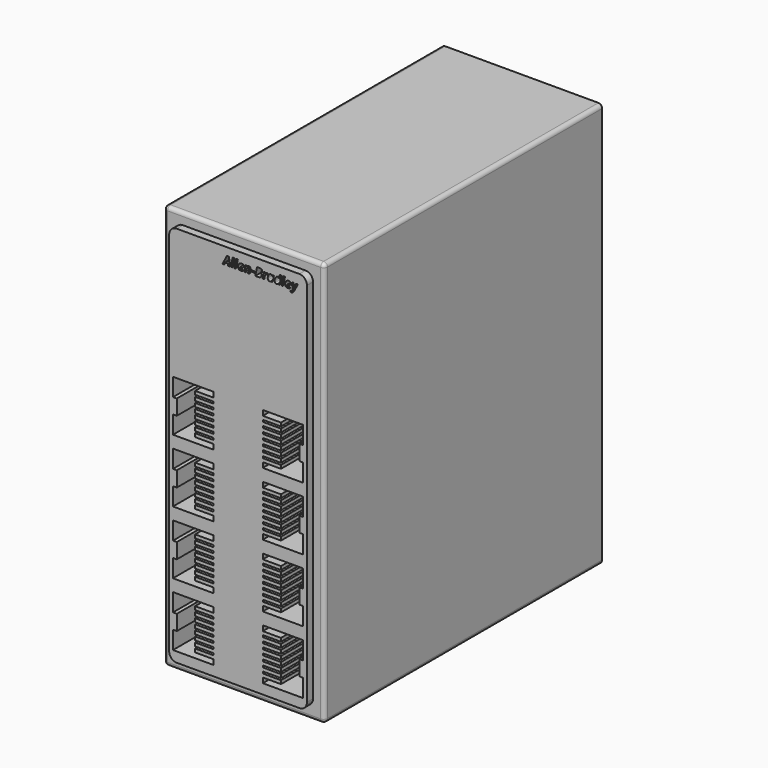
from build123d import *

# Parameters (mm, degrees)
F0_W     = 53.594
F0_H     = 135.128
F1_DEPTH = 115.824
F3_DEPTH = 2.54
F4_R     = 1.27
F6_DEPTH = 25.4


with BuildPart() as f1:
    # F0 (on Front) → F1 (new body)
    with BuildSketch(Plane.XZ):
        with Locations((26.797, 67.564)):
            Rectangle(F0_W, F0_H)
    extrude(amount=F1_DEPTH)

    # F2 (on face) → F3 (join)
    with BuildSketch(Plane.XZ.offset(115.824)):
        with BuildLine():
            Line((47.244, 131.318), (6.35, 131.318))
            ThreePointArc((6.35, 131.318), (4.5539487758, 130.5740512242), (3.81, 128.778))
            Line((3.81, 128.778), (3.81, 6.35))
            ThreePointArc((3.81, 6.35), (4.5539487758, 4.5539487758), (6.35, 3.81))
            Line((6.35, 3.81), (47.244, 3.81))
            ThreePointArc((47.244, 3.81), (49.0400512242, 4.5539487758), (49.784, 6.35))
            Line((49.784, 6.35), (49.784, 128.778))
            ThreePointArc((49.784, 128.778), (49.0400512242, 130.5740512242), (47.244, 131.318))
        make_face()
        Polygon((23.5003221438, 125.9574780346), (23.4544152107, 126.6234346097), (22.5497425838, 126.6234346097), (22.2210489433, 125.9574780346), (21.6089565029, 125.9574780346), (23.0736937128, 128.7657581512), (23.7873934983, 128.7657581512), (24.0683439285, 125.9574780346), align=None, mode=Mode.SUBTRACT)
        Polygon((25.5820485336, 128.9340835723), (24.9503691351, 125.9574780346), (24.3750022411, 125.9574780346), (25.0060695472, 128.9340835723), align=None, mode=Mode.SUBTRACT)
        Polygon((26.7450241704, 128.9340835723), (26.1133447719, 125.9574780346), (25.5379778779, 125.9574780346), (26.169045184, 128.9340835723), align=None, mode=Mode.SUBTRACT)
        with BuildLine():
            add(Edge.make_bspline(
                [(28.3933891125, 126.0835690773), (28.064695472, 125.9189162108), (27.64786052, 125.9189162108)],
                knots=[0, 0, 0, 1, 1, 1], degree=2))
            add(Edge.make_bspline(
                [(27.64786052, 125.9189162108), (27.2457157867, 125.9189162108), (27.023832277, 126.1352908885)],
                knots=[0, 0, 0, 1, 1, 1], degree=2))
            add(Edge.make_bspline(
                [(27.023832277, 126.1352908885), (26.8019487674, 126.3516655662), (26.8019487674, 126.7458530978)],
                knots=[0, 0, 0, 1, 1, 1], degree=2))
            add(Edge.make_bspline(
                [(26.8019487674, 126.7458530978), (26.8019487674, 127.1412648143), (26.959868617, 127.4675100851)],
                knots=[0, 0, 0, 1, 1, 1], degree=2))
            add(Edge.make_bspline(
                [(26.959868617, 127.4675100851), (27.1177884666, 127.7937553558), (27.3874151866, 127.9648351929)],
                knots=[0, 0, 0, 1, 1, 1], degree=2))
            add(Edge.make_bspline(
                [(27.3874151866, 127.9648351929), (27.6570419066, 128.13591503), (27.9973653035, 128.13591503)],
                knots=[0, 0, 0, 1, 1, 1], degree=2))
            add(Edge.make_bspline(
                [(27.9973653035, 128.13591503), (28.3364645155, 128.13591503), (28.5256010796, 127.9801375039)],
                knots=[0, 0, 0, 1, 1, 1], degree=2))
            add(Edge.make_bspline(
                [(28.5256010796, 127.9801375039), (28.7147376437, 127.8243599778), (28.7147376437, 127.5525909343)],
                knots=[0, 0, 0, 1, 1, 1], degree=2))
            add(Edge.make_bspline(
                [(28.7147376437, 127.5525909343), (28.7147376437, 127.1951289491), (28.395531436, 127.0010956455)],
                knots=[0, 0, 0, 1, 1, 1], degree=2))
            add(Edge.make_bspline(
                [(28.395531436, 127.0010956455), (28.0763252283, 126.8070623419), (27.4832076536, 126.8070623419)],
                knots=[0, 0, 0, 1, 1, 1], degree=2))
            Line((27.4832076536, 126.8070623419), (27.3852728631, 126.8070623419))
            Line((27.3852728631, 126.8070623419), (27.3816003085, 126.7666642408))
            Line((27.3816003085, 126.7666642408), (27.3816003085, 126.728102417))
            add(Edge.make_bspline(
                [(27.3816003085, 126.728102417), (27.3816003085, 126.554268164), (27.4801471914, 126.4538850037)],
                knots=[0, 0, 0, 1, 1, 1], degree=2))
            add(Edge.make_bspline(
                [(27.4801471914, 126.4538850037), (27.5786940743, 126.3535018435), (27.7623218064, 126.3535018435)],
                knots=[0, 0, 0, 1, 1, 1], degree=2))
            add(Edge.make_bspline(
                [(27.7623218064, 126.3535018435), (27.9288109502, 126.3535018435), (28.064695472, 126.3899213437)],
                knots=[0, 0, 0, 1, 1, 1], degree=2))
            add(Edge.make_bspline(
                [(28.064695472, 126.3899213437), (28.2005799937, 126.4263408439), (28.3933891125, 126.51815471)],
                knots=[0, 0, 0, 1, 1, 1], degree=2))
            Line((28.3933891125, 126.51815471), (28.3933891125, 126.0835690773))
        make_face(mode=Mode.SUBTRACT)
        with BuildLine():
            Line((30.93602111, 127.1761540834), (30.6813906547, 125.9574780346))
            Line((30.6813906547, 125.9574780346), (30.1060237608, 125.9574780346))
            Line((30.1060237608, 125.9574780346), (30.3679993253, 127.2067587054))
            add(Edge.make_bspline(
                [(30.3679993253, 127.2067587054), (30.3986039473, 127.3365223028), (30.3986039473, 127.4344570933)],
                knots=[0, 0, 0, 1, 1, 1], degree=2))
            add(Edge.make_bspline(
                [(30.3986039473, 127.4344570933), (30.3986039473, 127.6695005904), (30.1917167024, 127.6695005904)],
                knots=[0, 0, 0, 1, 1, 1], degree=2))
            add(Edge.make_bspline(
                [(30.1917167024, 127.6695005904), (30.016046172, 127.6695005904), (29.8725104947, 127.4512896354)],
                knots=[0, 0, 0, 1, 1, 1], degree=2))
            add(Edge.make_bspline(
                [(29.8725104947, 127.4512896354), (29.7289748175, 127.2330786804), (29.6469544304, 126.8431757958)],
                knots=[0, 0, 0, 1, 1, 1], degree=2))
            Line((29.6469544304, 126.8431757958), (29.4590420512, 125.9574780346))
            Line((29.4590420512, 125.9574780346), (28.8836751572, 125.9574780346))
            Line((28.8836751572, 125.9574780346), (29.3366235631, 128.0961290214))
            Line((29.3366235631, 128.0961290214), (29.7767180278, 128.0961290214))
            Line((29.7767180278, 128.0961290214), (29.7363199267, 127.7001052124))
            Line((29.7363199267, 127.7001052124), (29.7479496831, 127.7001052124))
            add(Edge.make_bspline(
                [(29.7479496831, 127.7001052124), (30.0270638359, 128.13591503), (30.427372292, 128.13591503)],
                knots=[0, 0, 0, 1, 1, 1], degree=2))
            add(Edge.make_bspline(
                [(30.427372292, 128.13591503), (30.6911841338, 128.13591503), (30.8356379497, 127.9764649493)],
                knots=[0, 0, 0, 1, 1, 1], degree=2))
            add(Edge.make_bspline(
                [(30.8356379497, 127.9764649493), (30.9800917657, 127.8170148685), (30.9800917657, 127.5201500349)],
                knots=[0, 0, 0, 1, 1, 1], degree=2))
            add(Edge.make_bspline(
                [(30.9800917657, 127.5201500349), (30.9800917657, 127.3805929585), (30.93602111, 127.1761540834)],
                knots=[0, 0, 0, 1, 1, 1], degree=2))
        make_face(mode=Mode.SUBTRACT)
        Polygon((32.2599770586, 126.7685005181), (31.2573696412, 126.7685005181), (31.3589769863, 127.2465447141), (32.3609723113, 127.2465447141), align=None, mode=Mode.SUBTRACT)
        with BuildLine():
            Line((33.1315966937, 128.7541283948), (33.9469038244, 128.7541283948))
            add(Edge.make_bspline(
                [(33.9469038244, 128.7541283948), (34.3845499193, 128.7541283948), (34.6082697062, 128.5980448225)],
                knots=[0, 0, 0, 1, 1, 1], degree=2))
            add(Edge.make_bspline(
                [(34.6082697062, 128.5980448225), (34.8319894932, 128.4419612502), (34.8319894932, 128.1322424754)],
                knots=[0, 0, 0, 1, 1, 1], degree=2))
            add(Edge.make_bspline(
                [(34.8319894932, 128.1322424754), (34.8319894932, 127.8451711208), (34.6734575511, 127.6587889727)],
                knots=[0, 0, 0, 1, 1, 1], degree=2))
            add(Edge.make_bspline(
                [(34.6734575511, 127.6587889727), (34.5149256091, 127.4724068246), (34.2223454226, 127.4111975805)],
                knots=[0, 0, 0, 1, 1, 1], degree=2))
            Line((34.2223454226, 127.4111975805), (34.2223454226, 127.3995678242))
            add(Edge.make_bspline(
                [(34.2223454226, 127.3995678242), (34.413318264, 127.3499883365), (34.5271674579, 127.2150219534)],
                knots=[0, 0, 0, 1, 1, 1], degree=2))
            add(Edge.make_bspline(
                [(34.5271674579, 127.2150219534), (34.6410166518, 127.0800555703), (34.6410166518, 126.8701078632)],
                knots=[0, 0, 0, 1, 1, 1], degree=2))
            add(Edge.make_bspline(
                [(34.6410166518, 126.8701078632), (34.6410166518, 126.4318496759), (34.3484364653, 126.1946638552)],
                knots=[0, 0, 0, 1, 1, 1], degree=2))
            add(Edge.make_bspline(
                [(34.3484364653, 126.1946638552), (34.0558562788, 125.9574780346), (33.5392502591, 125.9574780346)],
                knots=[0, 0, 0, 1, 1, 1], degree=2))
            Line((33.5392502591, 125.9574780346), (32.5409274887, 125.9574780346))
            Line((32.5409274887, 125.9574780346), (33.1315966937, 128.7541283948))
        make_face(mode=Mode.SUBTRACT)
        with BuildLine():
            add(Edge.make_bspline(
                [(35.8039922886, 127.7001052124), (36.0855548112, 128.13591503), (36.4791302504, 128.13591503)],
                knots=[0, 0, 0, 1, 1, 1], degree=2))
            add(Edge.make_bspline(
                [(36.4791302504, 128.13591503), (36.5923673519, 128.13591503), (36.6627579825, 128.115103887)],
                knots=[0, 0, 0, 1, 1, 1], degree=2))
            Line((36.6627579825, 128.115103887), (36.5366669398, 127.560548136))
            add(Edge.make_bspline(
                [(36.5366669398, 127.560548136), (36.4503619057, 127.591152758), (36.3456940984, 127.591152758)],
                knots=[0, 0, 0, 1, 1, 1], degree=2))
            add(Edge.make_bspline(
                [(36.3456940984, 127.591152758), (36.1235045425, 127.591152758), (35.95609726, 127.4160943201)],
                knots=[0, 0, 0, 1, 1, 1], degree=2))
            add(Edge.make_bspline(
                [(35.95609726, 127.4160943201), (35.7886899776, 127.2410358821), (35.7182993469, 126.9141785189)],
                knots=[0, 0, 0, 1, 1, 1], degree=2))
            Line((35.7182993469, 126.9141785189), (35.5150846567, 125.9574780346))
            Line((35.5150846567, 125.9574780346), (34.9397177627, 125.9574780346))
            Line((34.9397177627, 125.9574780346), (35.3926661686, 128.0961290214))
            Line((35.3926661686, 128.0961290214), (35.8327606333, 128.0961290214))
            Line((35.8327606333, 128.0961290214), (35.7923625322, 127.7001052124))
            Line((35.7923625322, 127.7001052124), (35.8039922886, 127.7001052124))
        make_face(mode=Mode.SUBTRACT)
        with BuildLine():
            add(Edge.make_bspline(
                [(37.9046935441, 126.2347559101), (37.6482268116, 125.9189162108), (37.294437381, 125.9189162108)],
                knots=[0, 0, 0, 1, 1, 1], degree=2))
            add(Edge.make_bspline(
                [(37.294437381, 125.9189162108), (37.0128748584, 125.9189162108), (36.8512824542, 126.1227429935)],
                knots=[0, 0, 0, 1, 1, 1], degree=2))
            add(Edge.make_bspline(
                [(36.8512824542, 126.1227429935), (36.6896900499, 126.3265697761), (36.6896900499, 126.6938252404)],
                knots=[0, 0, 0, 1, 1, 1], degree=2))
            add(Edge.make_bspline(
                [(36.6896900499, 126.6938252404), (36.6896900499, 127.072710461), (36.827410849, 127.4160943201)],
                knots=[0, 0, 0, 1, 1, 1], degree=2))
            add(Edge.make_bspline(
                [(36.827410849, 127.4160943201), (36.9651316481, 127.7594781791), (37.1891574813, 127.9476966046)],
                knots=[0, 0, 0, 1, 1, 1], degree=2))
            add(Edge.make_bspline(
                [(37.1891574813, 127.9476966046), (37.4131833145, 128.13591503), (37.6806677109, 128.13591503)],
                knots=[0, 0, 0, 1, 1, 1], degree=2))
            add(Edge.make_bspline(
                [(37.6806677109, 128.13591503), (37.8661317204, 128.13591503), (38.0010981035, 128.0557309203)],
                knots=[0, 0, 0, 1, 1, 1], degree=2))
            add(Edge.make_bspline(
                [(38.0010981035, 128.0557309203), (38.1360644866, 127.9755468106), (38.2107397643, 127.8225237005)],
                knots=[0, 0, 0, 1, 1, 1], degree=2))
            Line((38.2107397643, 127.8225237005), (38.2260420753, 127.8225237005))
            Line((38.2260420753, 127.8225237005), (38.3349945297, 128.0961290214))
            Line((38.3349945297, 128.0961290214), (38.778761549, 128.0961290214))
            Line((38.778761549, 128.0961290214), (38.3233647734, 125.9574780346))
            Line((38.3233647734, 125.9574780346), (37.885106586, 125.9574780346))
            Line((37.885106586, 125.9574780346), (37.9120386534, 126.2347559101))
            Line((37.9120386534, 126.2347559101), (37.9046935441, 126.2347559101))
        make_face(mode=Mode.SUBTRACT)
        with BuildLine():
            add(Edge.make_bspline(
                [(39.9481641564, 125.9935914885), (39.7997317396, 125.9189162108), (39.6222249319, 125.9189162108)],
                knots=[0, 0, 0, 1, 1, 1], degree=2))
            add(Edge.make_bspline(
                [(39.6222249319, 125.9189162108), (39.3406624093, 125.9189162108), (39.1790700051, 126.1236611321)],
                knots=[0, 0, 0, 1, 1, 1], degree=2))
            add(Edge.make_bspline(
                [(39.1790700051, 126.1236611321), (39.0174776008, 126.3284060534), (39.0174776008, 126.697497795)],
                knots=[0, 0, 0, 1, 1, 1], degree=2))
            add(Edge.make_bspline(
                [(39.0174776008, 126.697497795), (39.0174776008, 127.072710461), (39.1542802612, 127.4142580428)],
                knots=[0, 0, 0, 1, 1, 1], degree=2))
            add(Edge.make_bspline(
                [(39.1542802612, 127.4142580428), (39.2910829217, 127.7558056245), (39.5148027086, 127.9458603273)],
                knots=[0, 0, 0, 1, 1, 1], degree=2))
            add(Edge.make_bspline(
                [(39.5148027086, 127.9458603273), (39.7385224956, 128.13591503), (40.0084552618, 128.13591503)],
                knots=[0, 0, 0, 1, 1, 1], degree=2))
            add(Edge.make_bspline(
                [(40.0084552618, 128.13591503), (40.1651509266, 128.13591503), (40.2790001205, 128.0652183531)],
                knots=[0, 0, 0, 1, 1, 1], degree=2))
            add(Edge.make_bspline(
                [(40.2790001205, 128.0652183531), (40.3928493144, 127.9945216763), (40.4944566595, 127.8225237005)],
                knots=[0, 0, 0, 1, 1, 1], degree=2))
            Line((40.4944566595, 127.8225237005), (40.5097589705, 127.8225237005))
            Line((40.5097589705, 127.8225237005), (40.5134315252, 127.8757757428))
            add(Edge.make_bspline(
                [(40.5134315252, 127.8757757428), (40.5250612815, 128.0863355423), (40.5611747355, 128.2491521315)],
                knots=[0, 0, 0, 1, 1, 1], degree=2))
            Line((40.5611747355, 128.2491521315), (40.7068527363, 128.9340835723))
            Line((40.7068527363, 128.9340835723), (41.2822196303, 128.9340835723))
            Line((41.2822196303, 128.9340835723), (40.6511523243, 125.9574780346))
            Line((40.6511523243, 125.9574780346), (40.2128941369, 125.9574780346))
            Line((40.2128941369, 125.9574780346), (40.2398262043, 126.2347559101))
            Line((40.2398262043, 126.2347559101), (40.232481095, 126.2347559101))
            add(Edge.make_bspline(
                [(40.232481095, 126.2347559101), (40.0965965732, 126.0682667663), (39.9481641564, 125.9935914885)],
                knots=[0, 0, 0, 1, 1, 1], degree=2))
        make_face(mode=Mode.SUBTRACT)
        with BuildLine():
            add(Edge.make_bspline(
                [(44.0996811336, 126.0835690773), (43.7709874931, 125.9189162108), (43.3541525411, 125.9189162108)],
                knots=[0, 0, 0, 1, 1, 1], degree=2))
            add(Edge.make_bspline(
                [(43.3541525411, 125.9189162108), (42.9520078078, 125.9189162108), (42.7301242981, 126.1352908885)],
                knots=[0, 0, 0, 1, 1, 1], degree=2))
            add(Edge.make_bspline(
                [(42.7301242981, 126.1352908885), (42.5082407885, 126.3516655662), (42.5082407885, 126.7458530978)],
                knots=[0, 0, 0, 1, 1, 1], degree=2))
            add(Edge.make_bspline(
                [(42.5082407885, 126.7458530978), (42.5082407885, 127.1412648143), (42.6661606381, 127.4675100851)],
                knots=[0, 0, 0, 1, 1, 1], degree=2))
            add(Edge.make_bspline(
                [(42.6661606381, 127.4675100851), (42.8240804877, 127.7937553558), (43.0937072077, 127.9648351929)],
                knots=[0, 0, 0, 1, 1, 1], degree=2))
            add(Edge.make_bspline(
                [(43.0937072077, 127.9648351929), (43.3633339278, 128.13591503), (43.7036573246, 128.13591503)],
                knots=[0, 0, 0, 1, 1, 1], degree=2))
            add(Edge.make_bspline(
                [(43.7036573246, 128.13591503), (44.0427565366, 128.13591503), (44.2318931007, 127.9801375039)],
                knots=[0, 0, 0, 1, 1, 1], degree=2))
            add(Edge.make_bspline(
                [(44.2318931007, 127.9801375039), (44.4210296648, 127.8243599778), (44.4210296648, 127.5525909343)],
                knots=[0, 0, 0, 1, 1, 1], degree=2))
            add(Edge.make_bspline(
                [(44.4210296648, 127.5525909343), (44.4210296648, 127.1951289491), (44.1018234571, 127.0010956455)],
                knots=[0, 0, 0, 1, 1, 1], degree=2))
            add(Edge.make_bspline(
                [(44.1018234571, 127.0010956455), (43.7826172494, 126.8070623419), (43.1894996747, 126.8070623419)],
                knots=[0, 0, 0, 1, 1, 1], degree=2))
            Line((43.1894996747, 126.8070623419), (43.0915648842, 126.8070623419))
            Line((43.0915648842, 126.8070623419), (43.0878923296, 126.7666642408))
            Line((43.0878923296, 126.7666642408), (43.0878923296, 126.728102417))
            add(Edge.make_bspline(
                [(43.0878923296, 126.728102417), (43.0878923296, 126.554268164), (43.1864392125, 126.4538850037)],
                knots=[0, 0, 0, 1, 1, 1], degree=2))
            add(Edge.make_bspline(
                [(43.1864392125, 126.4538850037), (43.2849860954, 126.3535018435), (43.4686138275, 126.3535018435)],
                knots=[0, 0, 0, 1, 1, 1], degree=2))
            add(Edge.make_bspline(
                [(43.4686138275, 126.3535018435), (43.6351029713, 126.3535018435), (43.7709874931, 126.3899213437)],
                knots=[0, 0, 0, 1, 1, 1], degree=2))
            add(Edge.make_bspline(
                [(43.7709874931, 126.3899213437), (43.9068720148, 126.4263408439), (44.0996811336, 126.51815471)],
                knots=[0, 0, 0, 1, 1, 1], degree=2))
            Line((44.0996811336, 126.51815471), (44.0996811336, 126.0835690773))
        make_face(mode=Mode.SUBTRACT)
        Polygon((42.4513161915, 128.9340835723), (41.819636793, 125.9574780346), (41.244269899, 125.9574780346), (41.8753372051, 128.9340835723), align=None, mode=Mode.SUBTRACT)
        with BuildLine():
            Line((45.0276132732, 125.9574780346), (44.7142219438, 128.0961290214))
            Line((44.7142219438, 128.0961290214), (45.2785711738, 128.0961290214))
            Line((45.2785711738, 128.0961290214), (45.3856873509, 127.1051513603))
            add(Edge.make_bspline(
                [(45.3856873509, 127.1051513603), (45.4120073258, 126.8719441405), (45.4120073258, 126.5444746849)],
                knots=[0, 0, 0, 1, 1, 1], degree=2))
            Line((45.4120073258, 126.5444746849), (45.4236370822, 126.5444746849))
            add(Edge.make_bspline(
                [(45.4236370822, 126.5444746849), (45.4621989059, 126.6424094754), (45.508105839, 126.7733972576)],
                knots=[0, 0, 0, 1, 1, 1], degree=2))
            add(Edge.make_bspline(
                [(45.508105839, 126.7733972576), (45.554012772, 126.9043850399), (45.6323606044, 127.067201629)],
                knots=[0, 0, 0, 1, 1, 1], degree=2))
            Line((45.6323606044, 127.067201629), (46.129379666, 128.0961290214))
            Line((46.129379666, 128.0961290214), (46.7549381401, 128.0961290214))
            Line((46.7549381401, 128.0961290214), (45.4542417042, 125.6514318143))
            add(Edge.make_bspline(
                [(45.4542417042, 125.6514318143), (45.1157545847, 125.0160798612), (44.5305942116, 125.0160798612)],
                knots=[0, 0, 0, 1, 1, 1], degree=2))
            add(Edge.make_bspline(
                [(44.5305942116, 125.0160798612), (44.3579841434, 125.0160798612), (44.249031689, 125.0528054076)],
                knots=[0, 0, 0, 1, 1, 1], degree=2))
            Line((44.249031689, 125.0528054076), (44.249031689, 125.5118747379))
            add(Edge.make_bspline(
                [(44.249031689, 125.5118747379), (44.3794073788, 125.4867789479), (44.4712212449, 125.4867789479)],
                knots=[0, 0, 0, 1, 1, 1], degree=2))
            add(Edge.make_bspline(
                [(44.4712212449, 125.4867789479), (44.6315894643, 125.4867789479), (44.7530898137, 125.5785928139)],
                knots=[0, 0, 0, 1, 1, 1], degree=2))
            add(Edge.make_bspline(
                [(44.7530898137, 125.5785928139), (44.8745901631, 125.67040668), (44.9780337856, 125.8638278912)],
                knots=[0, 0, 0, 1, 1, 1], degree=2))
            Line((44.9780337856, 125.8638278912), (45.0276132732, 125.9574780346))
        make_face(mode=Mode.SUBTRACT)
    extrude(amount=F3_DEPTH)

    # F4
    f4_edges = [f1.edges().sort_by_distance(p)[0] for p in [
        (53.594, -57.912, 135.128),
        (0, -57.912, 135.128),
        (53.594, -115.824, 67.564),
        (53.594, -57.912, 0),
        (0, -115.824, 67.564),
        (26.797, -115.824, 135.128),
        (26.797, -115.824, 0),
        (0, -57.912, 0),
    ]]
    fillet(f4_edges, radius=F4_R)

    # F5 (on face) → F6 (cut)
    with BuildSketch(Plane.XZ.offset(118.364)):
        Polygon((5.0800000317, 76.3582734084), (5.0800000317, 70.3899785876), (18.5549115916, 70.3899785876), (18.5549115916, 72.0854297423), (12.4783270214, 72.0854297423), (12.4783270214, 73.2335865641), (18.5549115916, 73.2335865641), (18.5549115916, 73.8634297423), (12.4783270214, 73.8634297423), (12.4783270214, 75.0115865641), (18.5549115916, 75.0115865641), (18.5549115916, 75.6414297423), (12.4783270214, 75.6414297423), (12.4783270214, 76.7895865641), (18.5549115916, 76.7895865641), (18.5549115916, 77.4194297423), (12.4783270214, 77.4194297423), (12.4783270214, 78.5675865641), (18.5549115916, 78.5675865641), (18.5549115916, 79.1974297423), (12.4783270214, 79.1974297423), (12.4783270214, 80.3455865641), (18.5549115916, 80.3455865641), (18.5549115916, 80.9754297423), (12.4783270214, 80.9754297423), (12.4783270214, 82.1235865641), (18.5549115916, 82.1235865641), (18.5549115916, 82.7534297423), (12.4783270214, 82.7534297423), (12.4783270214, 83.9015865641), (18.5549115916, 83.9015865641), (18.5549115916, 84.5314297423), (12.4783270214, 84.5314297423), (12.4783270214, 85.6795865641), (18.5549115916, 85.6795865641), (18.5549115916, 87.4065682292), (5.0800000317, 87.4065682292), (5.0800000317, 81.4382734084), (6.3500000317, 81.4382734084), (6.3500000317, 78.8982734084), (6.3500000317, 76.3582734084), align=None)
        Polygon((35.0390884084, 75.0115865641), (41.1156729786, 75.0115865641), (41.1156729786, 73.8634297423), (35.0390884084, 73.8634297423), (35.0390884084, 73.2335865641), (41.1156729786, 73.2335865641), (41.1156729786, 72.0854297423), (35.0390884084, 72.0854297423), (35.0390884084, 70.3899785876), (48.5139999683, 70.3899785876), (48.5139999683, 76.3582734084), (47.2439999683, 76.3582734084), (47.2439999683, 78.8982734084), (47.2439999683, 81.4382734084), (48.5139999683, 81.4382734084), (48.5139999683, 87.4065682292), (35.0390884084, 87.4065682292), (35.0390884084, 85.6795865641), (41.1156729786, 85.6795865641), (41.1156729786, 84.5314297423), (35.0390884084, 84.5314297423), (35.0390884084, 83.9015865641), (41.1156729786, 83.9015865641), (41.1156729786, 82.7534297423), (35.0390884084, 82.7534297423), (35.0390884084, 82.1235865641), (41.1156729786, 82.1235865641), (41.1156729786, 80.9754297423), (35.0390884084, 80.9754297423), (35.0390884084, 80.3455865641), (41.1156729786, 80.3455865641), (41.1156729786, 79.1974297423), (35.0390884084, 79.1974297423), (35.0390884084, 78.5675865641), (41.1156729786, 78.5675865641), (41.1156729786, 77.4194297423), (35.0390884084, 77.4194297423), (35.0390884084, 76.7895865641), (41.1156729786, 76.7895865641), (41.1156729786, 75.6414297423), (35.0390884084, 75.6414297423), align=None)
        Polygon((35.0390884084, 59.8934297423), (35.0390884084, 59.2635865641), (41.1156729786, 59.2635865641), (41.1156729786, 58.1154297423), (35.0390884084, 58.1154297423), (35.0390884084, 57.4855865641), (41.1156729786, 57.4855865641), (41.1156729786, 56.3374297423), (35.0390884084, 56.3374297423), (35.0390884084, 55.7075865641), (41.1156729786, 55.7075865641), (41.1156729786, 54.5594297423), (35.0390884084, 54.5594297423), (35.0390884084, 53.9295865641), (41.1156729786, 53.9295865641), (41.1156729786, 52.7814297423), (35.0390884084, 52.7814297423), (35.0390884084, 52.1515865641), (41.1156729786, 52.1515865641), (41.1156729786, 51.0034297423), (35.0390884084, 51.0034297423), (35.0390884084, 49.3079785876), (48.5139999683, 49.3079785876), (48.5139999683, 55.2762734084), (47.2439999683, 55.2762734084), (47.2439999683, 57.8162734084), (47.2439999683, 60.3562734084), (48.5139999683, 60.3562734084), (48.5139999683, 66.3245682292), (35.0390884084, 66.3245682292), (35.0390884084, 64.5975865641), (41.1156729786, 64.5975865641), (41.1156729786, 63.4494297423), (35.0390884084, 63.4494297423), (35.0390884084, 62.8195865641), (41.1156729786, 62.8195865641), (41.1156729786, 61.6714297423), (35.0390884084, 61.6714297423), (35.0390884084, 61.0415865641), (41.1156729786, 61.0415865641), (41.1156729786, 59.8934297423), align=None)
        Polygon((18.5549115916, 54.5594297423), (12.4783270214, 54.5594297423), (12.4783270214, 55.7075865641), (18.5549115916, 55.7075865641), (18.5549115916, 56.3374297423), (12.4783270214, 56.3374297423), (12.4783270214, 57.4855865641), (18.5549115916, 57.4855865641), (18.5549115916, 58.1154297423), (12.4783270214, 58.1154297423), (12.4783270214, 59.2635865641), (18.5549115916, 59.2635865641), (18.5549115916, 59.8934297423), (12.4783270214, 59.8934297423), (12.4783270214, 61.0415865641), (18.5549115916, 61.0415865641), (18.5549115916, 61.6714297423), (12.4783270214, 61.6714297423), (12.4783270214, 62.8195865641), (18.5549115916, 62.8195865641), (18.5549115916, 63.4494297423), (12.4783270214, 63.4494297423), (12.4783270214, 64.5975865641), (18.5549115916, 64.5975865641), (18.5549115916, 66.3245682292), (5.0800000317, 66.3245682292), (5.0800000317, 60.3562734084), (6.3500000317, 60.3562734084), (6.3500000317, 57.8162734084), (6.3500000317, 55.2762734084), (5.0800000317, 55.2762734084), (5.0800000317, 49.3079785876), (18.5549115916, 49.3079785876), (18.5549115916, 51.0034297423), (12.4783270214, 51.0034297423), (12.4783270214, 52.1515865641), (18.5549115916, 52.1515865641), (18.5549115916, 52.7814297423), (12.4783270214, 52.7814297423), (12.4783270214, 53.9295865641), (18.5549115916, 53.9295865641), align=None)
        Polygon((41.1156729786, 38.1815865641), (41.1156729786, 37.0334297423), (35.0390884084, 37.0334297423), (35.0390884084, 36.4035865641), (41.1156729786, 36.4035865641), (41.1156729786, 35.2554297423), (35.0390884084, 35.2554297423), (35.0390884084, 34.6255865641), (41.1156729786, 34.6255865641), (41.1156729786, 33.4774297423), (35.0390884084, 33.4774297423), (35.0390884084, 32.8475865641), (41.1156729786, 32.8475865641), (41.1156729786, 31.6994297423), (35.0390884084, 31.6994297423), (35.0390884084, 31.0695865641), (41.1156729786, 31.0695865641), (41.1156729786, 29.9214297423), (35.0390884084, 29.9214297423), (35.0390884084, 28.2259785876), (48.5139999683, 28.2259785876), (48.5139999683, 34.1942734084), (47.2439999683, 34.1942734084), (47.2439999683, 36.7342734084), (47.2439999683, 39.2742734084), (48.5139999683, 39.2742734084), (48.5139999683, 45.2425682292), (35.0390884084, 45.2425682292), (35.0390884084, 43.5155865641), (41.1156729786, 43.5155865641), (41.1156729786, 42.3674297423), (35.0390884084, 42.3674297423), (35.0390884084, 41.7375865641), (41.1156729786, 41.7375865641), (41.1156729786, 40.5894297423), (35.0390884084, 40.5894297423), (35.0390884084, 39.9595865641), (41.1156729786, 39.9595865641), (41.1156729786, 38.8114297423), (35.0390884084, 38.8114297423), (35.0390884084, 38.1815865641), align=None)
        Polygon((18.5549115916, 33.4774297423), (12.4783270214, 33.4774297423), (12.4783270214, 34.6255865641), (18.5549115916, 34.6255865641), (18.5549115916, 35.2554297423), (12.4783270214, 35.2554297423), (12.4783270214, 36.4035865641), (18.5549115916, 36.4035865641), (18.5549115916, 37.0334297423), (12.4783270214, 37.0334297423), (12.4783270214, 38.1815865641), (18.5549115916, 38.1815865641), (18.5549115916, 38.8114297423), (12.4783270214, 38.8114297423), (12.4783270214, 39.9595865641), (18.5549115916, 39.9595865641), (18.5549115916, 40.5894297423), (12.4783270214, 40.5894297423), (12.4783270214, 41.7375865641), (18.5549115916, 41.7375865641), (18.5549115916, 42.3674297423), (12.4783270214, 42.3674297423), (12.4783270214, 43.5155865641), (18.5549115916, 43.5155865641), (18.5549115916, 45.2425682292), (5.0800000317, 45.2425682292), (5.0800000317, 39.2742734084), (6.3500000317, 39.2742734084), (6.3500000317, 36.7342734084), (6.3500000317, 34.1942734084), (5.0800000317, 34.1942734084), (5.0800000317, 28.2259785876), (18.5549115916, 28.2259785876), (18.5549115916, 29.9214297423), (12.4783270214, 29.9214297423), (12.4783270214, 31.0695865641), (18.5549115916, 31.0695865641), (18.5549115916, 31.6994297423), (12.4783270214, 31.6994297423), (12.4783270214, 32.8475865641), (18.5549115916, 32.8475865641), align=None)
        Polygon((35.0390884084, 14.1734297423), (35.0390884084, 13.5435865641), (41.1156729786, 13.5435865641), (41.1156729786, 12.3954297423), (35.0390884084, 12.3954297423), (35.0390884084, 11.7655865641), (41.1156729786, 11.7655865641), (41.1156729786, 10.6174297423), (35.0390884084, 10.6174297423), (35.0390884084, 9.9875865641), (41.1156729786, 9.9875865641), (41.1156729786, 8.8394297423), (35.0390884084, 8.8394297423), (35.0390884084, 7.1439785876), (48.5139999683, 7.1439785876), (48.5139999683, 13.1122734084), (47.2439999683, 13.1122734084), (47.2439999683, 15.6522734084), (47.2439999683, 18.1922734084), (48.5139999683, 18.1922734084), (48.5139999683, 24.1605682292), (35.0390884084, 24.1605682292), (35.0390884084, 22.4335865641), (41.1156729786, 22.4335865641), (41.1156729786, 21.2854297423), (35.0390884084, 21.2854297423), (35.0390884084, 20.6555865641), (41.1156729786, 20.6555865641), (41.1156729786, 19.5074297423), (35.0390884084, 19.5074297423), (35.0390884084, 18.8775865641), (41.1156729786, 18.8775865641), (41.1156729786, 17.7294297423), (35.0390884084, 17.7294297423), (35.0390884084, 17.0995865641), (41.1156729786, 17.0995865641), (41.1156729786, 15.9514297423), (35.0390884084, 15.9514297423), (35.0390884084, 15.3215865641), (41.1156729786, 15.3215865641), (41.1156729786, 14.1734297423), align=None)
        Polygon((18.5549115916, 12.3954297423), (12.4783270214, 12.3954297423), (12.4783270214, 13.5435865641), (18.5549115916, 13.5435865641), (18.5549115916, 14.1734297423), (12.4783270214, 14.1734297423), (12.4783270214, 15.3215865641), (18.5549115916, 15.3215865641), (18.5549115916, 15.9514297423), (12.4783270214, 15.9514297423), (12.4783270214, 17.0995865641), (18.5549115916, 17.0995865641), (18.5549115916, 17.7294297423), (12.4783270214, 17.7294297423), (12.4783270214, 18.8775865641), (18.5549115916, 18.8775865641), (18.5549115916, 19.5074297423), (12.4783270214, 19.5074297423), (12.4783270214, 20.6555865641), (18.5549115916, 20.6555865641), (18.5549115916, 21.2854297423), (12.4783270214, 21.2854297423), (12.4783270214, 22.4335865641), (18.5549115916, 22.4335865641), (18.5549115916, 24.1605682292), (5.0800000317, 24.1605682292), (5.0800000317, 18.1922734084), (6.3500000317, 18.1922734084), (6.3500000317, 15.6522734084), (6.3500000317, 13.1122734084), (5.0800000317, 13.1122734084), (5.0800000317, 7.1439785876), (18.5549115916, 7.1439785876), (18.5549115916, 8.8394297423), (12.4783270214, 8.8394297423), (12.4783270214, 9.9875865641), (18.5549115916, 9.9875865641), (18.5549115916, 10.6174297423), (12.4783270214, 10.6174297423), (12.4783270214, 11.7655865641), (18.5549115916, 11.7655865641), align=None)
    extrude(amount=-F6_DEPTH, mode=Mode.SUBTRACT)


solid = f1.part
